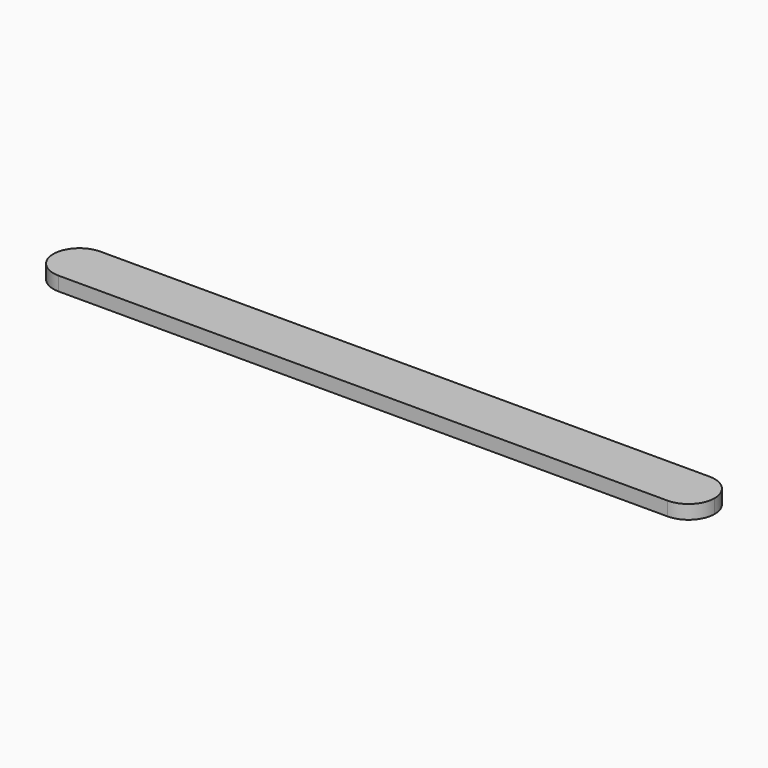
from build123d import *

# Parameters (mm, degrees)
F1_DEPTH = 2.54


with BuildPart() as f1:
    # F0 (on Top) → F1 (new body)
    with BuildSketch(Plane.XY):
        with BuildLine():
            ThreePointArc((-55.0086423755, 10.8990078449), (-51.6410463301, 12.2939117995), (-50.2461423755, 15.6615078449))
            ThreePointArc((-50.2461423755, 15.6615078449), (-51.6410463301, 19.0291038903), (-55.0086423755, 20.4240078449))
            Line((-55.0086423755, 20.4240078449), (-55.0086423755, 15.6615078449))
            Line((-55.0086423755, 15.6615078449), (-55.0086423755, 10.8990078449))
        make_face()
        with BuildLine():
            ThreePointArc((-55.0086423755, 20.4240078449), (-51.6410463301, 19.0291038903), (-50.2461423755, 15.6615078449))
            ThreePointArc((-50.2461423755, 15.6615078449), (-51.6410463301, 12.2939117995), (-55.0086423755, 10.8990078449))
            Line((-55.0086423755, 10.8990078449), (56.1163576245, 10.8990078449))
            ThreePointArc((56.1163576245, 10.8990078449), (51.3538576245, 15.6615078449), (56.1163576245, 20.4240078449))
            Line((56.1163576245, 20.4240078449), (-55.0086423755, 20.4240078449))
        make_face()
        with BuildLine():
            Line((-55.0086423755, 15.6615078449), (-55.0086423755, 20.4240078449))
            ThreePointArc((-55.0086423755, 20.4240078449), (-59.7711423755, 15.6615078449), (-55.0086423755, 10.8990078449))
            Line((-55.0086423755, 10.8990078449), (-55.0086423755, 15.6615078449))
        make_face()
        with BuildLine():
            ThreePointArc((60.8788576245, 15.6615078449), (59.4839536699, 19.0291038903), (56.1163576245, 20.4240078449))
            Line((56.1163576245, 20.4240078449), (56.1163576245, 15.6615078449))
            Line((56.1163576245, 15.6615078449), (56.1163576245, 10.8990078449))
            ThreePointArc((56.1163576245, 10.8990078449), (59.4839536699, 12.2939117995), (60.8788576245, 15.6615078449))
        make_face()
        with BuildLine():
            Line((56.1163576245, 15.6615078449), (56.1163576245, 20.4240078449))
            ThreePointArc((56.1163576245, 20.4240078449), (51.3538576245, 15.6615078449), (56.1163576245, 10.8990078449))
            Line((56.1163576245, 10.8990078449), (56.1163576245, 15.6615078449))
        make_face()
    extrude(amount=F1_DEPTH)


solid = f1.part
